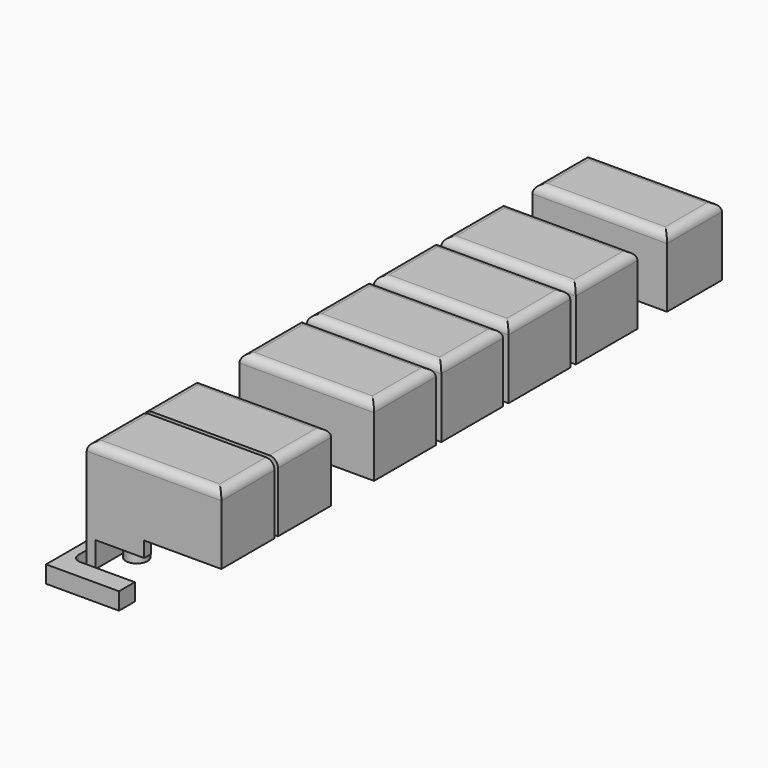
from build123d import *

# Parameters (mm, degrees)
PAD016_DEPTH    = 2
SKETCH030_W     = 4.5
SKETCH030_H     = 1
SKETCH030_W_2   = 1
SKETCH030_H_2   = 5
PAD017_DEPTH    = 1
SKETCH031_W     = 15.7
SKETCH031_H     = 9
SKETCH031_H_2   = 8
SKETCH031_H_3   = 16
PAD018_DEPTH    = 14
SKETCH032_W     = 13.7
SKETCH032_H     = 6
SKETCH032_H_2   = 7
SKETCH032_H_3   = 14
POCKET011_DEPTH = 13
SKETCH033_W     = 9
SKETCH033_H     = 72.95
POCKET012_DEPTH = 6
SKETCH042_R     = 1.25
PAD026_DEPTH    = 10.9
FILLET001_R     = 0.8
FILLET003_R     = 1
SKETCH122_W     = 15.7
SKETCH122_H     = 0.5
POCKET055_DEPTH = 15
SKETCH123_W     = 4.5
SKETCH123_H     = 1
SKETCH123_W_2   = 1
SKETCH123_H_2   = 5
PAD066_DEPTH    = 1
POCKET056_DEPTH = 1.2
FILLET009_R     = 1
POCKET059_DEPTH = 3
SKETCH134_W     = 1
SKETCH134_H     = 5
PAD073_DEPTH    = 0.8
SKETCH135_W     = 4.5
SKETCH135_H     = 1
POCKET060_DEPTH = 5
SKETCH136_W     = 5.7
SKETCH136_H     = 1
POCKET061_DEPTH = 3


with BuildPart() as part:
    # Sketch029 → Pad016 (new body)
    with BuildSketch(Plane.XY):
        with BuildLine():
            Line((3.9, 44.56), (3.9, 48.76))
            Line((3.9, 48.76), (-2.9, 48.76))
            ThreePointArc((-2.9, 48.76), (-3.465685, 48.525685), (-3.7, 47.96))
            Line((-3.7, 47.96), (-3.7, -32.64))
            Line((-3.7, -32.64), (4.8, -32.64))
            Line((4.8, -32.64), (4.8, -30.34))
            Line((4.8, -30.34), (-2.56, -30.34))
            Line((-2.56, -30.34), (-2.56, -12.44))
            Line((-2.56, -12.44), (3.89, -12.44))
            Line((3.89, -12.44), (3.89, -7.94))
            Line((3.89, -7.94), (-2.56, -7.94))
            Line((-2.56, -7.94), (-2.56, 44.56))
            Line((-2.56, 44.56), (3.9, 44.56))
        make_face()
        with BuildLine():
            Line((1.84, -9.49), (-1.56, -9.49))
            ThreePointArc((-1.56, -9.49), (-2.26, -10.19), (-1.56, -10.89))
            Line((-1.56, -10.89), (1.84, -10.89))
            ThreePointArc((1.84, -10.89), (2.54, -10.19), (1.84, -9.49))
        make_face(mode=Mode.SUBTRACT)
        with BuildLine():
            Line((1.9, 47.71), (-1.6, 47.71))
            ThreePointArc((-1.6, 47.71), (-2.7, 46.61), (-1.6, 45.51))
            Line((-1.6, 45.51), (1.9, 45.51))
            ThreePointArc((1.9, 45.51), (3, 46.61), (1.9, 47.71))
        make_face(mode=Mode.SUBTRACT)
    extrude(amount=-PAD016_DEPTH)

    # Sketch030 (on Face23 of Pad016) → Pad017 (join)
    with BuildSketch(Plane(origin=(0, 0, -2), x_dir=(1, 0, 0), z_dir=(0, 0, -1))):
        with Locations((1.65, -44.06)):
            Rectangle(SKETCH030_W, SKETCH030_H)
        with Locations((-2.06, 2.64)):
            Rectangle(SKETCH030_W_2, SKETCH030_H_2)
        with Locations((-2.06, -7.16)):
            Rectangle(SKETCH030_W_2, SKETCH030_H_2)
        with Locations((-2.06, -16.96)):
            Rectangle(SKETCH030_W_2, SKETCH030_H_2)
        with Locations((-2.06, -26.76)):
            Rectangle(SKETCH030_W_2, SKETCH030_H_2)
        with Locations((-2.06, 25.39)):
            Rectangle(SKETCH030_W_2, SKETCH030_H_2)
        with Locations((-2.06, 17.39)):
            Rectangle(SKETCH030_W_2, SKETCH030_H_2)
    extrude(amount=-PAD017_DEPTH)

    # Sketch031 (on Face50 of Pad017) → Pad018 (join)
    with BuildSketch(Plane(origin=(0, 0, -2), x_dir=(1, 0, 0), z_dir=(0, 0, -1))):
        with Locations((6.29, 2.64)):
            Rectangle(SKETCH031_W, SKETCH031_H)
        with Locations((6.29, -7.16)):
            Rectangle(SKETCH031_W, SKETCH031_H)
        with Locations((6.29, -16.96)):
            Rectangle(SKETCH031_W, SKETCH031_H)
        with Locations((6.29, -26.76)):
            Rectangle(SKETCH031_W, SKETCH031_H)
        with Locations((6.29, -39.56)):
            Rectangle(SKETCH031_W, SKETCH031_H_2)
        with Locations((6.29, 21.39)):
            Rectangle(SKETCH031_W, SKETCH031_H_3)
    extrude(amount=-PAD018_DEPTH)

    # Sketch032 (on Face73 of Pad018) → Pocket011 (cut)
    with BuildSketch(Plane(origin=(0, 0, -2), x_dir=(1, 0, 0), z_dir=(0, 0, -1))):
        with Locations((6.29, -39.56)):
            Rectangle(SKETCH032_W, SKETCH032_H)
        with Locations((6.29, -26.76)):
            Rectangle(SKETCH032_W, SKETCH032_H_2)
        with Locations((6.29, -16.96)):
            Rectangle(SKETCH032_W, SKETCH032_H_2)
        with Locations((6.29, -7.16)):
            Rectangle(SKETCH032_W, SKETCH032_H_2)
        with Locations((6.29, 2.64)):
            Rectangle(SKETCH032_W, SKETCH032_H_2)
        with Locations((6.29, 21.39)):
            Rectangle(SKETCH032_W, SKETCH032_H_3)
    extrude(amount=-POCKET011_DEPTH, mode=Mode.SUBTRACT)

    # Sketch033 (on Face5 of Pocket011) → Pocket012 (cut)
    with BuildSketch(Plane(origin=(0, 0, -2), x_dir=(1, 0, 0), z_dir=(0, 0, -1))):
        with Locations((9.64, -7.085)):
            Rectangle(SKETCH033_W, SKETCH033_H)
    extrude(amount=-POCKET012_DEPTH, mode=Mode.SUBTRACT)

    # Sketch042 (on Face103 of Pocket012) → Pad026 (join)
    with BuildSketch(Plane(origin=(0, 0, 11), x_dir=(1, 0, 0), z_dir=(0, 0, -1))):
        with Locations((1.99, 0.99)):
            Circle(SKETCH042_R)
        with Locations((1.99, -8.81)):
            Circle(SKETCH042_R)
        with Locations((1.99, -18.61)):
            Circle(SKETCH042_R)
        with Locations((1.99, -28.41)):
            Circle(SKETCH042_R)
        with Locations((1.99, -40.71)):
            Circle(SKETCH042_R)
        with Locations((1.99, 16.24)):
            Circle(SKETCH042_R)
        with Locations((1.99, 26.54)):
            Circle(SKETCH042_R)
    extrude(amount=PAD026_DEPTH)

    # Fillet001
    fillet001_edges = [part.edges().sort_by_distance(p)[0] for p in [
        (0.74, -16.24, 11),
        (0.74, -26.54, 11),
        (0.74, -0.99, 11),
        (0.74, 8.81, 11),
        (0.74, 18.61, 11),
        (0.74, 28.41, 11),
        (0.74, 40.71, 11),
    ]]
    fillet(fillet001_edges, radius=FILLET001_R)

    # Fillet003
    fillet003_edges = [part.edges().sort_by_distance(p)[0] for p in [
        (-1.56, -21.39, 12),
        (6.29, -13.39, 12),
        (14.14, -21.39, 12),
        (6.29, -29.39, 12),
        (6.29, -7.14, 12),
        (14.14, -2.64, 12),
        (6.29, 1.86, 12),
        (-1.56, -2.64, 12),
        (6.29, 2.66, 12),
        (6.29, 11.66, 12),
        (-1.56, 7.16, 12),
        (14.14, 7.16, 12),
        (14.14, 16.96, 12),
        (6.29, 12.46, 12),
        (6.29, 21.46, 12),
        (-1.56, 16.96, 12),
        (6.29, 22.26, 12),
        (-1.56, 26.76, 12),
        (6.29, 31.26, 12),
        (14.14, 26.76, 12),
        (14.14, 39.56, 12),
        (6.29, 43.56, 12),
        (6.29, 35.56, 12),
        (-1.56, 39.56, 12),
    ]]
    fillet(fillet003_edges, radius=FILLET003_R)

    # Sketch122 (on Face11 of Fillet003) → Pocket055 (cut)
    with BuildSketch(Plane.XY.offset(12)):
        with Locations((6.29, -21.39)):
            Rectangle(SKETCH122_W, SKETCH122_H)
    extrude(amount=-POCKET055_DEPTH, mode=Mode.SUBTRACT)

    # Sketch123 (on Face148 of Pocket055) → Pad066 (join)
    with BuildSketch(Plane.XY.offset(-1)):
        with Locations((1.65, 44.06)):
            Rectangle(SKETCH123_W, SKETCH123_H)
        with Locations((-2.06, 26.76)):
            Rectangle(SKETCH123_W_2, SKETCH123_H_2)
        with Locations((-2.06, 16.96)):
            Rectangle(SKETCH123_W_2, SKETCH123_H_2)
        with Locations((-2.06, 7.16)):
            Rectangle(SKETCH123_W_2, SKETCH123_H_2)
        with Locations((-2.06, -2.64)):
            Rectangle(SKETCH123_W_2, SKETCH123_H_2)
        with Locations((-2.06, -17.39)):
            Rectangle(SKETCH123_W_2, SKETCH123_H_2)
        with Locations((-2.06, -25.39)):
            Rectangle(SKETCH123_W_2, SKETCH123_H_2)
    extrude(amount=PAD066_DEPTH)

    # Sketch124 (on Face12 of Pad066) → Pocket056 (cut)
    with BuildSketch(Plane(origin=(0, 0, -2), x_dir=(1, 0, 0), z_dir=(0, 0, -1))):
        Polygon((-0.6, -43.56), (-0.6, -44.56), (3.9, -44.56), (3.9, -43.56), (5.14, -43.56), (5.14, -42.56), (-0.56, -42.56), (-0.56, -36.56), (5.14, -36.56), (5.14, -35.56), (-1.56, -35.56), (-1.56, -43.56), align=None)
        Polygon((-2.56, -24.26), (-1.56, -24.26), (-1.56, -22.26), (5.14, -22.26), (5.14, -23.26), (-0.56, -23.26), (-0.56, -30.26), (5.14, -30.26), (5.14, -31.26), (-1.56, -31.26), (-1.56, -29.26), (-2.56, -29.26), align=None)
        Polygon((-2.56, -19.46), (-1.56, -19.46), (-1.56, -21.46), (5.14, -21.46), (5.14, -20.46), (-0.56, -20.46), (-0.56, -13.46), (5.14, -13.46), (5.14, -12.46), (-1.56, -12.46), (-1.56, -14.46), (-2.56, -14.46), align=None)
        Polygon((-2.56, -9.66), (-1.56, -9.66), (-1.56, -11.66), (5.14, -11.66), (5.14, -10.66), (-0.56, -10.66), (-0.56, -3.66), (5.14, -3.66), (5.14, -2.66), (-1.56, -2.66), (-1.56, -4.66), (-2.56, -4.66), (-2.56, -1.66), (-3.7, -1.66), (-3.7, -6.66), (-2.56, -6.66), align=None)
        Polygon((-2.56, 5.14), (-1.56, 5.14), (-1.56, 7.14), (5.14, 7.14), (5.14, 6.14), (-0.56, 6.14), (-0.56, -0.86), (5.14, -0.86), (5.14, -1.86), (-1.56, -1.86), (-1.56, 0.14), (-2.56, 0.14), align=None)
        Polygon((-2.56, 27.89), (-2.56, 22.89), (-1.56, 22.89), (-1.56, 21.64), (-0.56, 21.64), (-0.56, 28.39), (5.14, 28.39), (5.14, 29.39), (-1.56, 29.39), (-1.56, 27.89), align=None)
        Polygon((-1.56, 21.14), (-1.56, 19.89), (-2.56, 19.89), (-2.56, 14.89), (-1.56, 14.89), (-1.56, 13.39), (5.14, 13.39), (5.14, 14.39), (-0.56, 14.39), (-0.56, 21.14), align=None)
    extrude(amount=-POCKET056_DEPTH, mode=Mode.SUBTRACT)

    # Fillet009
    fillet009_edges = [part.edges().sort_by_distance(p)[0] for p in [
        (-2.56, -12.44, -1),
        (-2.56, -7.94, -1),
        (-2.56, -30.34, -1),
        (-2.56, 44.56, -1),
    ]]
    fillet(fillet009_edges, radius=FILLET009_R)

    # Sketch131 (on Face56 of Fillet009) → Pocket059 (cut)
    with BuildSketch(Plane(origin=(0, 0, -0.8), x_dir=(1, 0, 0), z_dir=(0, 0, -1))):
        Polygon((-1.56, -2.66), (5.14, -2.66), (5.14, -3.66), (-0.56, -3.66), (-0.56, -4.66), (-1.56, -4.66), align=None)
        Polygon((-1.56, 0.14), (-0.56, 0.14), (-0.56, -0.86), (5.14, -0.86), (5.14, -1.86), (-1.56, -1.86), align=None)
    extrude(amount=-POCKET059_DEPTH, mode=Mode.SUBTRACT)

    # Sketch134 (on Face73 of Pocket059) → Pad073 (join)
    with BuildSketch(Plane(origin=(0, 0, -0.8), x_dir=(1, 0, 0), z_dir=(0, 0, -1))):
        with Locations((-2.06, -39.56)):
            Rectangle(SKETCH134_W, SKETCH134_H)
    extrude(amount=-PAD073_DEPTH)

    # Sketch135 (on Face203 of Pad073) → Pocket060 (cut)
    with BuildSketch(Plane(origin=(0, 0, -0.8), x_dir=(1, 0, 0), z_dir=(0, 0, -1))):
        with Locations((1.65, -44.06)):
            Rectangle(SKETCH135_W, SKETCH135_H)
    extrude(amount=-POCKET060_DEPTH, mode=Mode.SUBTRACT)

    # Sketch136 (on Face70 of Pocket060) → Pocket061 (cut)
    with BuildSketch(Plane(origin=(0, 0, -0.8), x_dir=(1, 0, 0), z_dir=(0, 0, -1))):
        with Locations((2.29, -43.06)):
            Rectangle(SKETCH136_W, SKETCH136_H)
        with Locations((2.29, -36.06)):
            Rectangle(SKETCH136_W, SKETCH136_H)
        with Locations((2.29, -30.76)):
            Rectangle(SKETCH136_W, SKETCH136_H)
        with Locations((2.29, -22.76)):
            Rectangle(SKETCH136_W, SKETCH136_H)
        with Locations((2.29, -20.96)):
            Rectangle(SKETCH136_W, SKETCH136_H)
        with Locations((2.29, -12.96)):
            Rectangle(SKETCH136_W, SKETCH136_H)
        with Locations((2.29, -11.16)):
            Rectangle(SKETCH136_W, SKETCH136_H)
        with Locations((2.29, 6.64)):
            Rectangle(SKETCH136_W, SKETCH136_H)
        with Locations((2.29, 28.89)):
            Rectangle(SKETCH136_W, SKETCH136_H)
        with Locations((2.29, 13.89)):
            Rectangle(SKETCH136_W, SKETCH136_H)
    extrude(amount=-POCKET061_DEPTH, mode=Mode.SUBTRACT)


with BuildPart() as part_1:
    # Body006 placement: moved
    add(part.part.moved(Location((-83, 0, 8))))


solid = part_1.part
